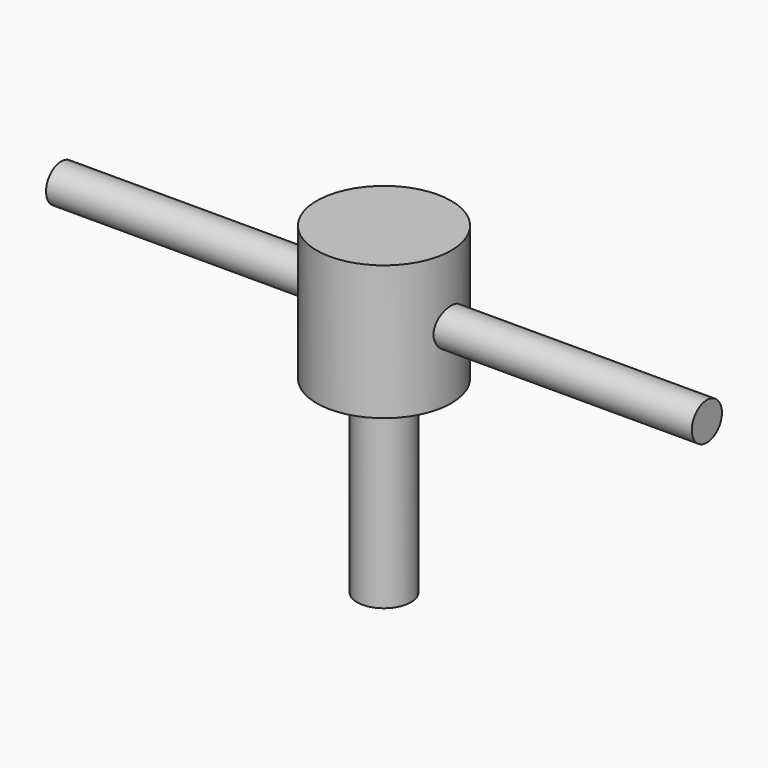
from build123d import *

# Parameters (mm, degrees)
F0_R          = 15.875
F1_DEPTH      = 31.75
F2_R          = 6.35
F3_DEPTH      = 44.45
F4_R          = 4.445
F5_DEPTH      = 76.2
F5_DEPTH_BACK = 76.2


with BuildPart() as f1:
    # F0 (on Top) → F1 (new body)
    with BuildSketch(Plane.XY):
        Circle(F0_R)
    extrude(amount=F1_DEPTH)

    # F2 (on face) → F3 (join)
    with BuildSketch(Plane(origin=(0, 0, 0), x_dir=(1, 0, 0), z_dir=(0, 0, -1))):
        Circle(F2_R)
    extrude(amount=F3_DEPTH)

    # F4 (on Right) → F5 (join, two sides)
    with BuildSketch(Plane.YZ) as f5_sk:
        with Locations((0, 15.875)):
            Circle(F4_R)
    extrude(amount=F5_DEPTH)
    extrude(f5_sk.sketch, amount=-F5_DEPTH_BACK)


solid = f1.part
